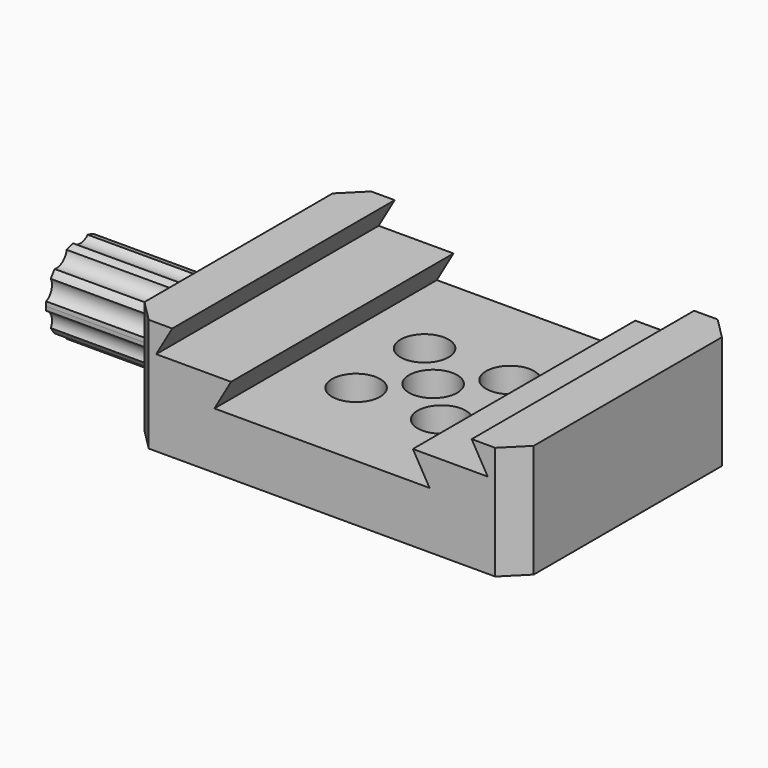
from build123d import *

# Parameters (mm, degrees)
F1_DEPTH       = 65
F2_SIZE        = 5
F5_D           = 6.6
F5_CBORE_D     = 11.25
F5_CBORE_DEPTH = 7
F6_D           = 5.5
F6_DEPTH       = 4.5
F6_TIP         = 1.6523667023
F8_DEPTH       = 37
F10_DEPTH      = 26


with BuildPart() as f1:
    # F0 (on Front) → F1 (new body)
    with BuildSketch(Plane.XZ):
        Polygon((45.5, -13.25), (45.5, 13.25), (35, 13.25), (38.7527767497, 6.75), (21.25, 6.75), (25.147114317, 0), (0, 0), (-25.147114317, 0), (-21.25, 6.75), (-38.7527767497, 6.75), (-35, 13.25), (-45.5, 13.25), (-45.5, -13.25), align=None)
    extrude(amount=F1_DEPTH)

    # F2
    f2_edges = [f1.edges().sort_by_distance(p)[0] for p in [
        (45.5, -65, 0),
        (45.5, 0, 0),
        (-45.5, -65, 0),
        (-45.5, 0, 0),
    ]]
    chamfer(f2_edges, length=F2_SIZE)

    # F5 (through all)
    with Locations(Plane.XY):
        with Locations((9.9724601813, -22.4858294427), (-10.0275398187, -22.4858294427), (-10.0275398187, -42.4858294427), (9.9724601813, -42.4858294427), (-0.0275398187, -32.4858294427)):
            CounterBoreHole(F5_D / 2, F5_CBORE_D / 2, F5_CBORE_DEPTH)

    # F6
    with Locations(Plane(origin=(0, 0, -13.25), x_dir=(1, 0, 0), z_dir=(0, 0, -1))):
        with Locations((27, 32.5), (20, 22.5), (20, 42.5), (-10, 5), (-10, 60)):
            Hole(F6_D / 2, depth=F6_DEPTH)
            with Locations((0, 0, -(F6_DEPTH + F6_TIP / 2))):  # 118° drill point
                Cone(0, F6_D / 2, F6_TIP, mode=Mode.SUBTRACT)



with BuildPart() as f8:
    # F7 (on face) → F8 (new body)
    with BuildSketch(Plane(origin=(-45.5, 0, 0), x_dir=(0, -1, 0), z_dir=(-1, 0, 0))):
        with BuildLine():
            ThreePointArc((35.0980762114, -13.25), (38.2959698705, -10.6751411771), (39.5, -6.75))
            ThreePointArc((39.5, -6.75), (28.5748588229, -0.9540301295), (29.9019237886, -13.25))
            Line((29.9019237886, -13.25), (35.0980762114, -13.25))
        make_face()
    extrude(amount=F8_DEPTH)


with BuildPart() as f1_1:
    add(f1.part)

    add(f8.part)  # F10 merges F8
    # F9 (on face) → F10 (join)
    with BuildSketch(Plane(origin=(-82.5, 0, 0), x_dir=(0, -1, 0), z_dir=(-1, 0, 0))):
        with BuildLine():
            ThreePointArc((42.4532659811, -7.7156584847), (42.4883096621, -7.2333943467), (42.5, -6.75))
            ThreePointArc((42.5, -6.75), (42.4883096621, -6.2666056533), (42.4532659811, -5.7843415153))
            ThreePointArc((42.4532659811, -5.7843415153), (40.9160983506, -4.0154438804), (41.1199611443, -1.680851169))
            ThreePointArc((41.1199611443, -1.680851169), (40.5901699437, -0.8721474771), (39.9847615122, -0.1183829193))
            ThreePointArc((39.9847615122, -0.1183829193), (37.7014348334, 0.4091608651), (36.4941241321, 2.4177135872))
            ThreePointArc((36.4941241321, 2.4177135872), (35.5901699437, 2.760565163), (34.6573325433, 3.0145233523))
            ThreePointArc((34.6573325433, 3.0145233523), (32.5, 2.0992094912), (30.3426674567, 3.0145233523))
            ThreePointArc((30.3426674567, 3.0145233523), (29.4098300563, 2.760565163), (28.5058758679, 2.4177135872))
            ThreePointArc((28.5058758679, 2.4177135872), (27.2985651666, 0.4091608651), (25.0152384878, -0.1183829193))
            ThreePointArc((25.0152384878, -0.1183829193), (24.4098300563, -0.8721474771), (23.8800388557, -1.680851169))
            ThreePointArc((23.8800388557, -1.680851169), (24.141738822, -2.3631068384), (24.2307321005, -3.0883928973))
            ThreePointArc((24.2307321005, -3.0883928973), (23.775138294, -4.6777314775), (22.5467340189, -5.7843415153))
            ThreePointArc((22.5467340189, -5.7843415153), (22.5, -6.75), (22.5467340189, -7.7156584847))
            ThreePointArc((22.5467340189, -7.7156584847), (23.775138294, -8.8222685225), (24.2307321005, -10.4116071027))
            ThreePointArc((24.2307321005, -10.4116071027), (24.141738822, -11.1368931616), (23.8800388557, -11.819148831))
            ThreePointArc((23.8800388557, -11.819148831), (24.4098300563, -12.6278525229), (25.0152384878, -13.3816170807))
            ThreePointArc((25.0152384878, -13.3816170807), (27.2985651666, -13.9091608651), (28.5058758679, -15.9177135872))
            ThreePointArc((28.5058758679, -15.9177135872), (29.4098300563, -16.260565163), (30.3426674567, -16.5145233523))
            ThreePointArc((30.3426674567, -16.5145233523), (32.5, -15.5992094912), (34.6573325433, -16.5145233523))
            ThreePointArc((34.6573325433, -16.5145233523), (35.5901699437, -16.260565163), (36.4941241321, -15.9177135872))
            ThreePointArc((36.4941241321, -15.9177135872), (37.7014348334, -13.9091608651), (39.9847615122, -13.3816170807))
            ThreePointArc((39.9847615122, -13.3816170807), (40.5901699437, -12.6278525229), (41.1199611443, -11.819148831))
            ThreePointArc((41.1199611443, -11.819148831), (40.9160983506, -9.4845561196), (42.4532659811, -7.7156584847))
        make_face()
        with BuildLine():
            ThreePointArc((29.9019237886, -13.25), (32.5, 0.25), (35.0980762114, -13.25))
            Line((35.0980762114, -13.25), (29.9019237886, -13.25))
        make_face(mode=Mode.SUBTRACT)
        with BuildLine():
            Line((29.9019237886, -13.25), (35.0980762114, -13.25))
            ThreePointArc((35.0980762114, -13.25), (32.5, 0.25), (29.9019237886, -13.25))
        make_face()
    extrude(amount=-F10_DEPTH)


solid = f1_1.part
